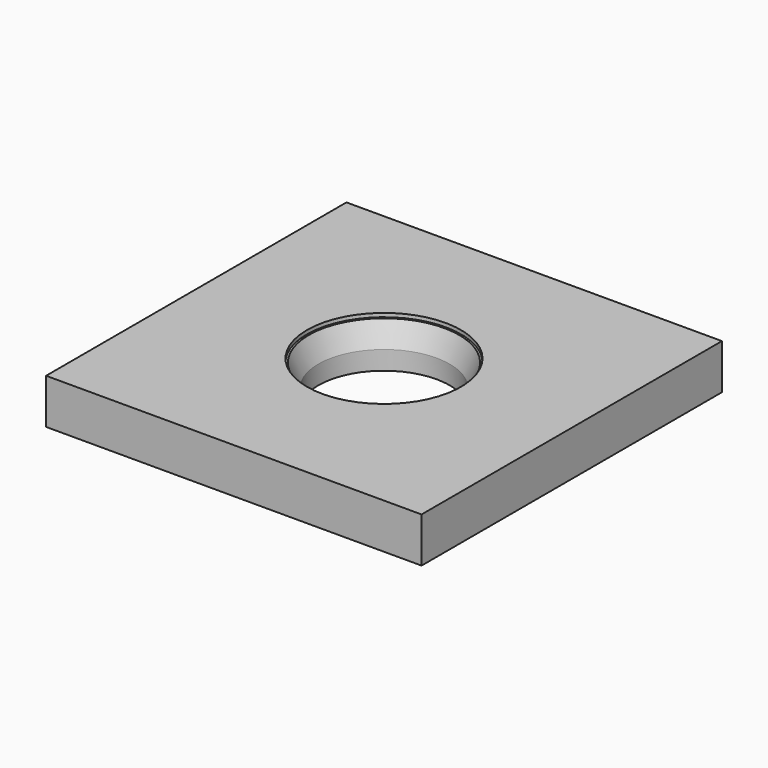
from build123d import *

# Parameters (mm, degrees)
F2_W     = 100
F2_H     = 100
F2_R     = 40
F3_DEPTH = 12


with BuildPart() as f1:
    # F0 (on Front) → F1 (revolve)
    with BuildSketch(Plane.XZ):
        Polygon((-40, 0), (-17.5, 0), (-17.5, 5), (-20, 11), (-20.5, 11), (-20.5, 12), (-40, 12), align=None)
    revolve(axis=Axis((0, 0, 25.371263), (0, 0, 1)))

    # F2 (on face) → F3 (join)
    with BuildSketch(Plane.XY.offset(12)):
        Rectangle(F2_W, F2_H)
        Circle(F2_R, mode=Mode.SUBTRACT)
        Rectangle(F2_W, F2_H)
        Circle(F2_R, mode=Mode.SUBTRACT)
    extrude(amount=-F3_DEPTH)


solid = f1.part
